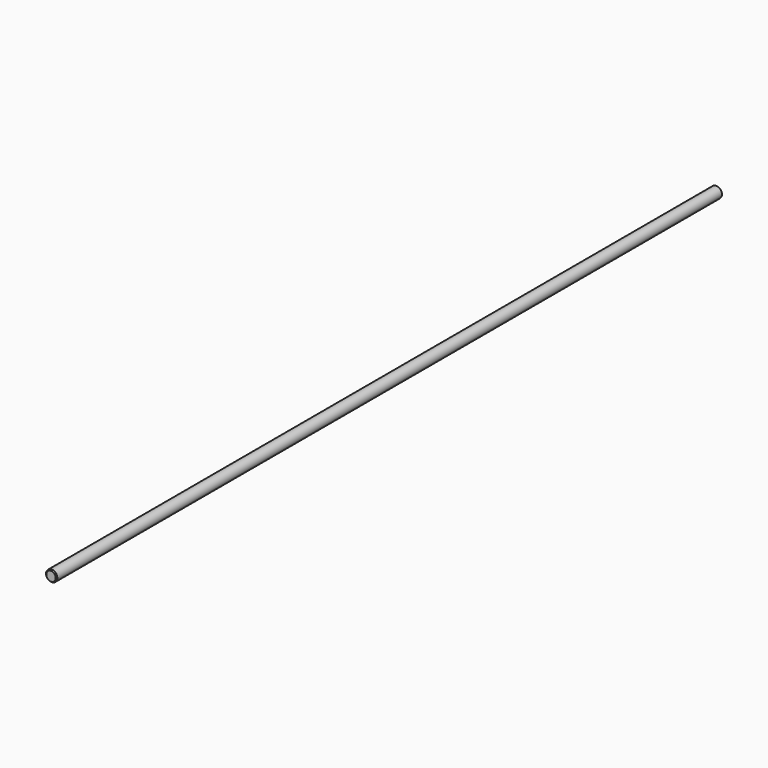
from build123d import *

# Parameters (mm, degrees)
F0_R     = 12.7
F1_DEPTH = 1879.6
F2_SIZE2 = 2.032
F2_SIZE  = 2.032
F3_SIZE2 = 2.032
F3_SIZE  = 2.032


with BuildPart() as f1:
    # F0 (on Front) → F1 (new body)
    with BuildSketch(Plane.XZ):
        Circle(F0_R)
    extrude(amount=F1_DEPTH)

    # F2
    f2_edges = [f1.edges().sort_by_distance(p)[0] for p in [
        (-12.7, -1879.6, 0),
    ]]
    chamfer(f2_edges, length=F2_SIZE, length2=F2_SIZE2)

    # F3
    f3_edges = [f1.edges().sort_by_distance(p)[0] for p in [
        (-12.7, 0, 0),
    ]]
    chamfer(f3_edges, length=F3_SIZE, length2=F3_SIZE2)


solid = f1.part
